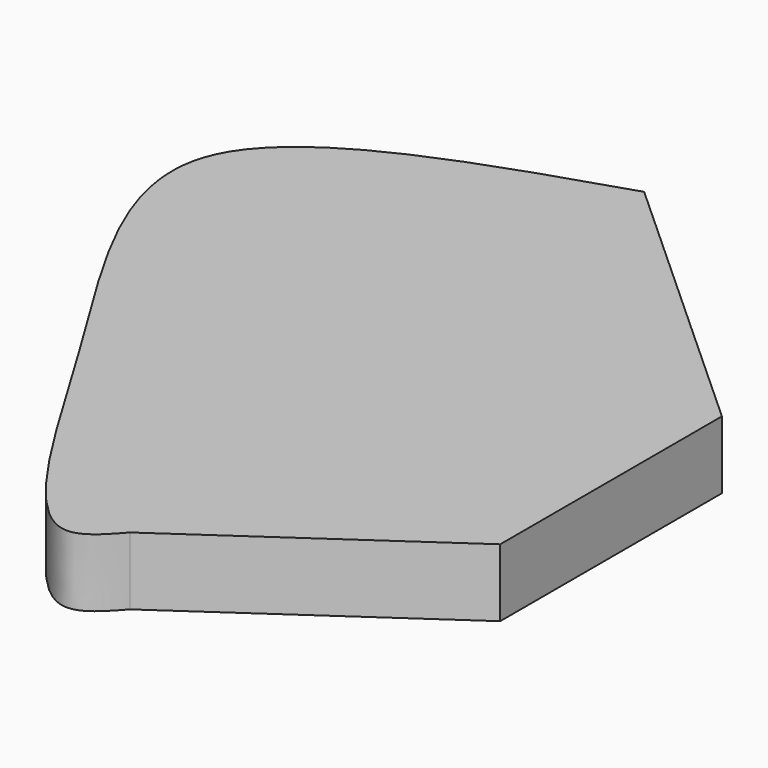
from build123d import *

# Parameters (mm, degrees)
F1_DEPTH = 25.4


with BuildPart() as f1:
    # F0 (on Top) → F1 (new body)
    with BuildSketch(Plane.XY):
        with BuildLine():
            add(Edge.make_bspline(
                [(23.1547281146, 140.0069594383), (-28.5733442737, 123.5569471095), (-131.2194228981, 90.9145310882), (-43.9505176555, -35.0814091101), (17.3537438249, -148.8588060101), (35.2422676025, -128.7447119781), (40.5272319913, -122.8022277355)],
                knots=[0, 0, 0, 0, 0.3013526235, 0.5979860384, 0.8812294688, 1, 1, 1, 1], degree=3))
            Line((40.5272319913, -122.8022277355), (129.8896670341, -60.9129816294))
            Line((129.8896670341, -60.9129816294), (129.8896670341, 43.0389903486))
            Line((129.8896670341, 43.0389903486), (23.1547281146, 140.0069594383))
        make_face()
    extrude(amount=F1_DEPTH)


solid = f1.part
